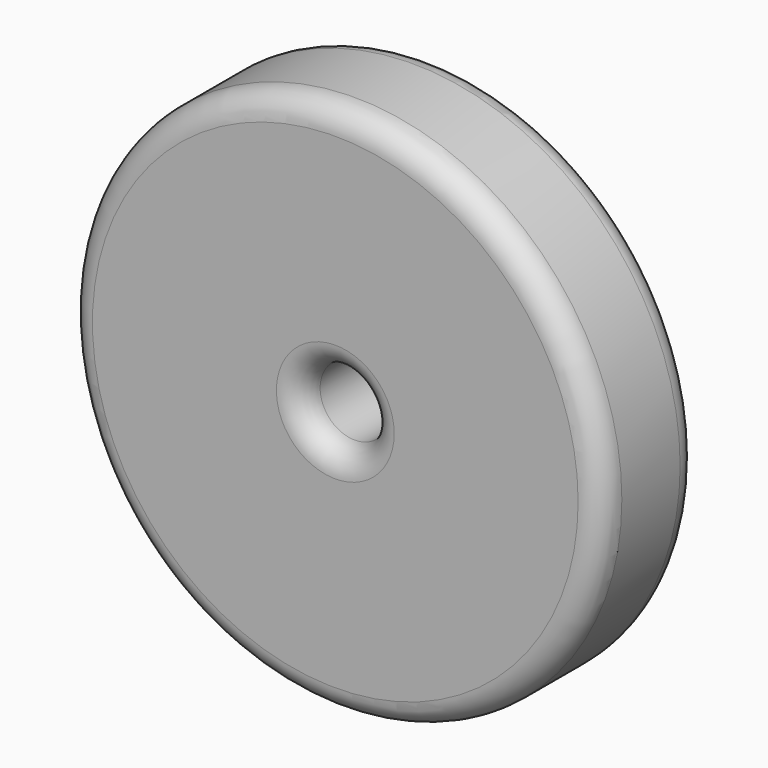
from build123d import *

# Parameters (mm, degrees)
F0_R     = 11
F0_R_2   = 1.425
F1_DEPTH = 5
F2_R     = 1
F3_R     = 1
F4_R     = 1
F5_R     = 1


with BuildPart() as f1:
    # F0 (on Front) → F1 (new body)
    with BuildSketch(Plane.XZ):
        Circle(F0_R)
        Circle(F0_R_2, mode=Mode.SUBTRACT)
    extrude(amount=F1_DEPTH)

    # F2
    f2_edges = [f1.edges().sort_by_distance(p)[0] for p in [
        (-1.425, -5, 0),
    ]]
    fillet(f2_edges, radius=F2_R)

    # F3
    f3_edges = [f1.edges().sort_by_distance(p)[0] for p in [
        (-1.425, 0, 0),
    ]]
    fillet(f3_edges, radius=F3_R)

    # F4
    f4_edges = [f1.edges().sort_by_distance(p)[0] for p in [
        (-11, -5, 0),
    ]]
    fillet(f4_edges, radius=F4_R)

    # F5
    f5_edges = [f1.edges().sort_by_distance(p)[0] for p in [
        (-11, 0, 0),
    ]]
    fillet(f5_edges, radius=F5_R)


solid = f1.part
